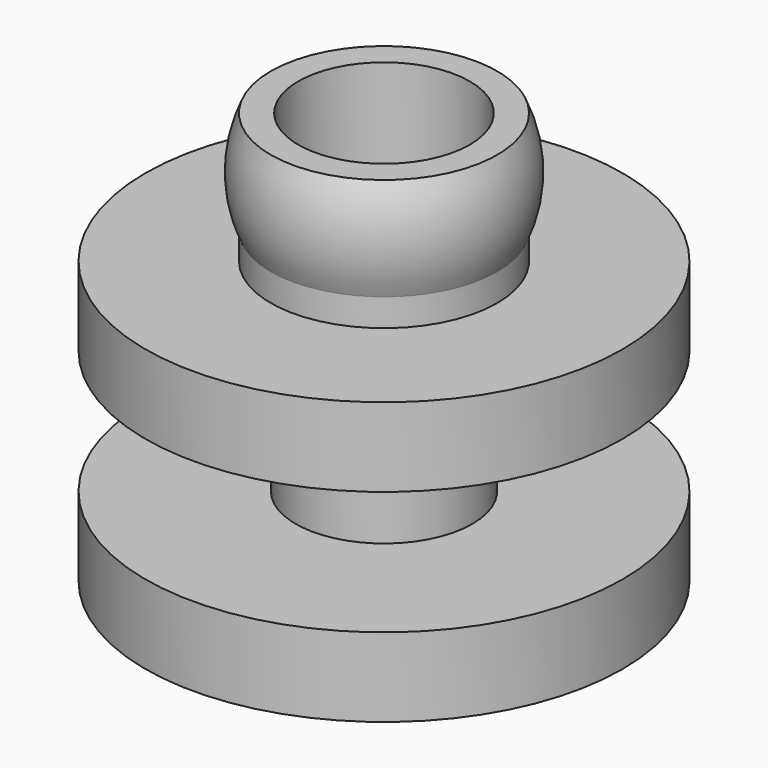
from build123d import *

# Parameters (mm, degrees)
F0_R      = 6.95
F1_DEPTH  = 2.3
F2_R      = 2.575
F3_DEPTH  = 3.6
F4_R      = 6.95
F5_DEPTH  = 2.3
F6_R      = 3.3
F7_DEPTH  = 3.8
F10_R     = 2.5
F11_DEPTH = 3.8


with BuildPart() as f1:
    # F0 (on Top) → F1 (new body)
    with BuildSketch(Plane.XY):
        Circle(F0_R)
    extrude(amount=F1_DEPTH)

    # F2 (on face) → F3 (join)
    with BuildSketch(Plane.XY.offset(2.3)):
        Circle(F2_R)
    extrude(amount=F3_DEPTH)

    # F4 (on face) → F5 (join)
    with BuildSketch(Plane.XY.offset(5.9)):
        Circle(F4_R)
    extrude(amount=F5_DEPTH)

    # F6 (on face) → F7 (join)
    with BuildSketch(Plane.XY.offset(8.2)):
        Circle(F6_R)
    extrude(amount=F7_DEPTH)

    # F8 (on Front) → F9 (revolve)
    with BuildSketch(Plane.XZ):
        with BuildLine():
            ThreePointArc((-3.3, 12), (-3.6249137921, 10.5), (-3.3, 9))
            Line((-3.3, 9), (-3.3, 12))
        make_face()
    revolve(axis=Axis((0, 0, 8.2), (0, 0, -1)))

    # F10 (on face) → F11 (cut, through all)
    with BuildSketch(Plane.XY.offset(12)):
        Circle(F10_R)
    extrude(amount=-F11_DEPTH, mode=Mode.SUBTRACT)


solid = f1.part
